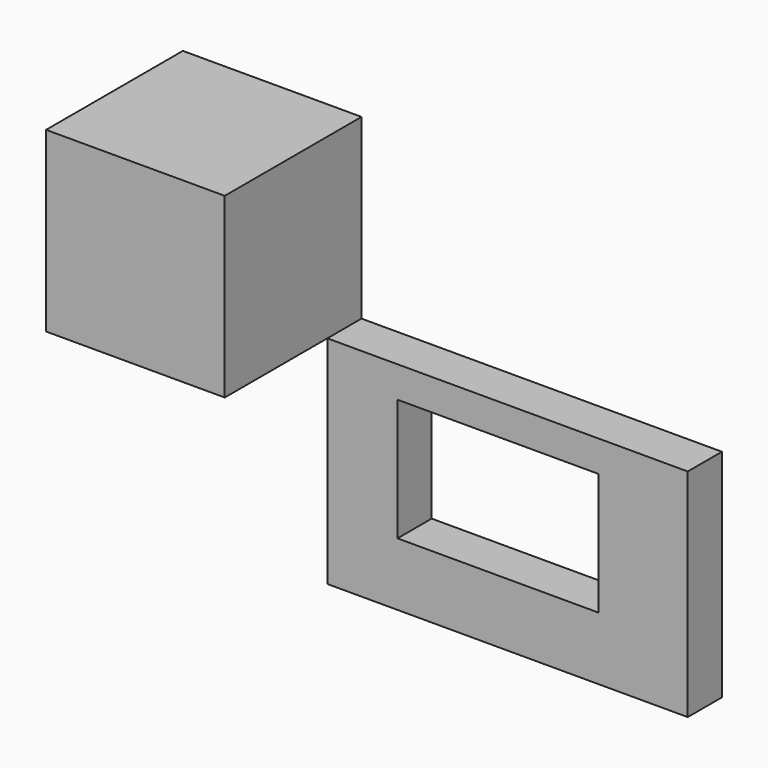
from build123d import *

# Parameters (mm, degrees)
F0_W     = 106.179804
F0_H     = 105.535656
F1_DEPTH = 101.6
F2_W     = 214.179501
F2_H     = 128.523558
F2_W_2   = 119.369381
F2_H_2   = 72.544977
F3_DEPTH = 25.4


with BuildPart() as f1:
    # F0 (on Front) → F1 (new body)
    with BuildSketch(Plane.XZ):
        with Locations((-53.089902, 52.767828)):
            Rectangle(F0_W, F0_H)
    extrude(amount=F1_DEPTH)


with BuildPart() as f3:
    # F2 (on Front) → F3 (new body)
    with BuildSketch(Plane.XZ):
        with Locations((107.08975, -64.261779)):
            Rectangle(F2_W, F2_H)
        with Locations((101.37831, -54.811038)):
            Rectangle(F2_W_2, F2_H_2, mode=Mode.SUBTRACT)
    extrude(amount=F3_DEPTH)


solid = Compound([f1.part, f3.part])
